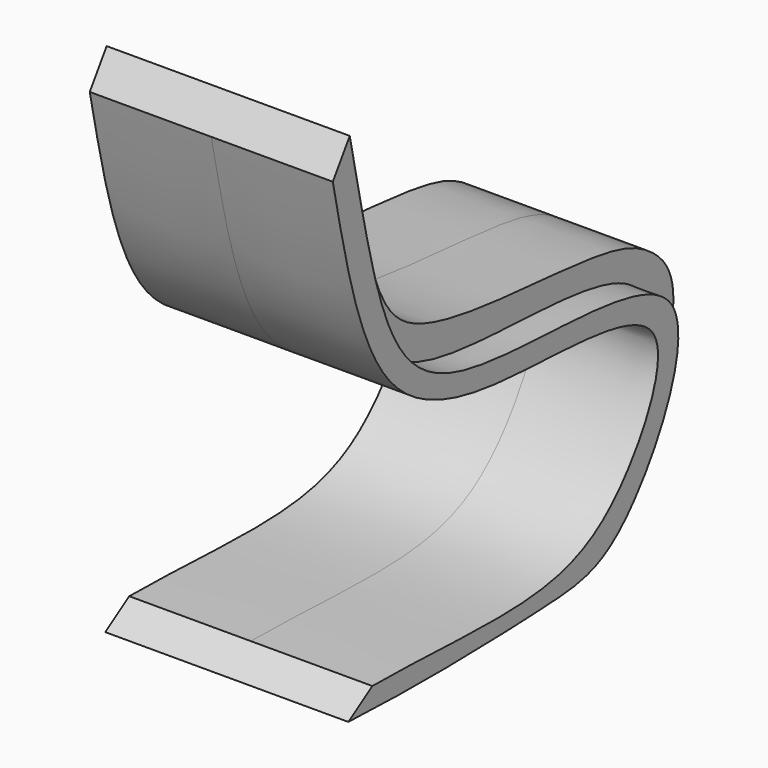
from build123d import *

# Parameters (mm, degrees)
F1_DEPTH = 12.7
F2_DEPTH = 9.525


with BuildPart() as f1:
    # F0 (on Right) → F1 (new body, symmetric)
    with BuildSketch(Plane.YZ):
        with BuildLine():
            Line((-16.4997577667, -22.5834678859), (-19.6337904781, -24.611370638))
            add(Edge.make_bspline(
                [(-19.6337904781, -24.611370638), (-9.7182257648, -25.0547390616), (0.8200345521, -24.7390809786), (7.4633055996, -24.3670492018), (7.9810882925, -24.3289784683)],
                knots=[0, 0, 0, 0, 0.2164537087, 0.2355557487, 0.2355557487, 0.2355557487, 0.2355557487], degree=3))
            add(Edge.make_bspline(
                [(7.9810882925, -24.3289784683), (11.2145478496, -24.091233602), (17.3364310055, -22.7084387002), (31.6622889711, 3.7866162512), (-12.2052451783, -2.8394049632), (-15.5618612251, 10.9087540364), (-18.7454167133, 25.9018559009)],
                knots=[0.2355557487, 0.2355557487, 0.2355557487, 0.2355557487, 0.3548445442, 0.537731447, 0.7647731748, 0.9844102977, 0.9844102977, 0.9844102977, 0.9844102977], degree=3))
            add(Edge.make_bspline(
                [(-18.7454167133, 25.9018559009), (-18.9713834426, 26.9660566673), (-19.2050738791, 28.0717357292), (-19.4494370371, 29.2202420533)],
                knots=[0.9844102977, 0.9844102977, 0.9844102977, 0.9844102977, 1, 1, 1, 1], degree=3))
            Line((-19.4494370371, 29.2202420533), (-21.6616950929, 25.9018559009))
            add(Edge.make_bspline(
                [(-16.4997577667, -22.5834678859), (-7.9793474426, -22.5931149034), (6.1585929663, -24.17566423), (16.6538963412, -18.6208652145), (25.6282908205, -0.9057347564), (-1.3488195266, -2.6869677884), (-17.0248725916, 2.9572860871), (-19.9979357307, 18.0108451166), (-21.6616950929, 25.9018559009)],
                knots=[0, 0, 0, 0, 0.191074497, 0.3282414152, 0.4695450889, 0.6513142342, 0.811885784, 1, 1, 1, 1], degree=3))
        make_face()
    extrude(amount=F1_DEPTH, both=True)

    # F0 (on Right) → F2 (join, symmetric)
    with BuildSketch(Plane.YZ):
        with BuildLine():
            add(Edge.make_bspline(
                [(7.9810882925, -24.3289784683), (11.2145478496, -24.091233602), (17.3364310055, -22.7084387002), (31.6622889711, 3.7866162512), (-12.2052451783, -2.8394049632), (-15.5618612251, 10.9087540364), (-18.7454167133, 25.9018559009)],
                knots=[0.2355557487, 0.2355557487, 0.2355557487, 0.2355557487, 0.3548445442, 0.537731447, 0.7647731748, 0.9844102977, 0.9844102977, 0.9844102977, 0.9844102977], degree=3))
            Line((7.9810882925, -24.3289784683), (16.8071388142, -24.588339335))
            add(Edge.make_bspline(
                [(-15.8767867833, 25.9018559009), (-14.5611947363, 19.9926861713), (-12.4167360154, 10.3605447803), (-7.4115178238, 5.0254589491), (4.7343630711, 3.2998721017), (18.397224785, 2.6147510671), (23.81567102, 0.3765180138), (28.6169653238, -4.6322635829), (23.0420263076, -19.3204921909), (18.6823032894, -22.9980669484), (16.8071388142, -24.588339335)],
                knots=[0, 0, 0, 0, 0.1592820464, 0.259662216, 0.397742719, 0.5462343577, 0.6400940371, 0.7344263458, 0.8856241108, 1, 1, 1, 1], degree=3))
            Line((-15.8767867833, 25.9018559009), (-18.7454167133, 25.9018559009))
        make_face()
    extrude(amount=F2_DEPTH, both=True)


solid = f1.part
